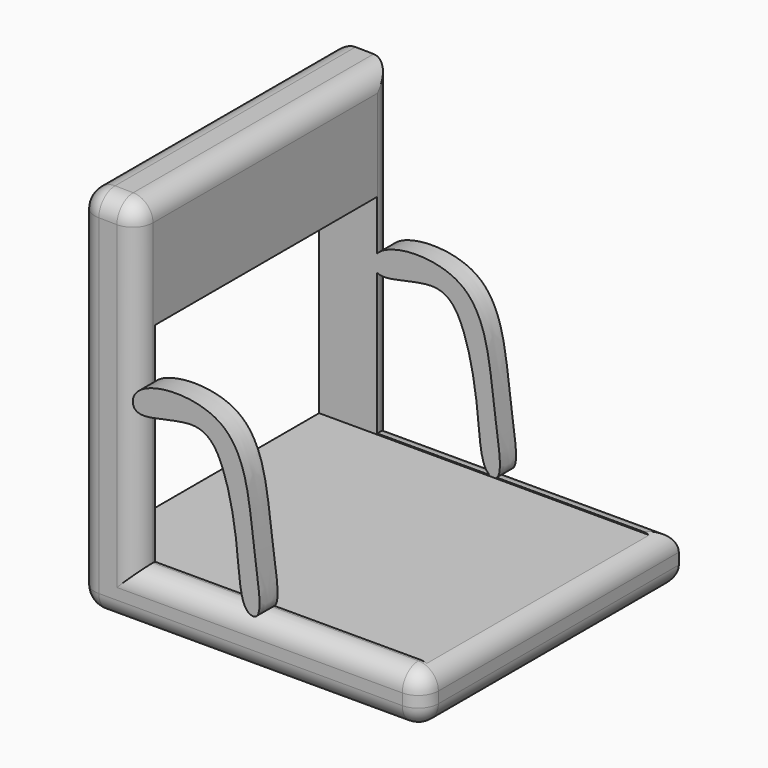
from build123d import *

# Parameters (mm, degrees)
F1_DEPTH      = 80
F2_R          = 5
F4_DEPTH      = 80
F5_W          = 69.3526305258
F5_H          = 52.2494073957
F6_DEPTH      = 32.7497253653
F6_DEPTH_BACK = 80


with BuildPart() as f1:
    # F0 (on Front) → F1 (new body)
    with BuildSketch(Plane.XZ):
        Polygon((-38.4773612022, 49.552731216), (-52.9899187386, 49.7436895967), (-52.9899187386, -42.8693182766), (32.7487252653, -42.8693182766), (32.7487252653, -30.0753582269), (-38.4773612022, -30.0753582269), align=None)
    extrude(amount=F1_DEPTH)

    # F2
    f2_edges = [f1.edges().sort_by_distance(p)[0] for p in [
        (-45.73364, -80, 49.64821),
        (-52.989919, -80, 3.437186),
        (-38.477361, -80, 9.738686),
        (-10.120597, -80, -42.869318),
        (32.748725, -80, -36.472338),
        (-2.864318, -80, -30.075358),
        (-38.477361, -40, 49.552731),
        (32.748725, -40, -30.075358),
        (32.748725, -40, -42.869318),
        (-2.864318, 0, -30.075358),
        (-38.477361, 0, 9.738686),
        (-52.989919, 0, 3.437186),
        (-10.120597, 0, -42.869318),
        (-52.989919, -40, -42.869318),
        (-52.989919, -40, 49.74369),
    ]]
    fillet(f2_edges, radius=F2_R)

    # F3 (on Front) → F4 (join)
    with BuildSketch(Plane.XZ):
        with BuildLine():
            add(Edge.make_bspline(
                [(-38.2473170757, 9.6792960539), (-34.7461796121, 13.0281086714), (-11.4925405841, 14.1909887393), (-10.1073277172, -13.4632232782), (-6.5035060364, -31.0405901942), (-12.631528047, -30.036067053), (-13.1115754671, -16.4435440399), (-16.1139194364, -0.2010840031), (-22.7345973209, 9.7301338701), (-39.8837011725, 2.0135902203), (-39.8908586877, 8.1072604099), (-38.2473170757, 9.6792960539)],
                knots=[0, 0, 0, 0, 0.1421739327, 0.3013436322, 0.4239758326, 0.4733624252, 0.5842320579, 0.7167055943, 0.8142170362, 0.9332591831, 1, 1, 1, 1], degree=3))
        make_face()
    extrude(amount=F4_DEPTH)

    # F5 (on Right) → F6 (cut, two sides)
    with BuildSketch(Plane.YZ) as f6_sk:
        with Locations((-39.7136043757, -4.2288182303)):
            Rectangle(F5_W, F5_H)
    extrude(amount=F6_DEPTH, mode=Mode.SUBTRACT)
    extrude(f6_sk.sketch, amount=-F6_DEPTH_BACK, mode=Mode.SUBTRACT)


solid = f1.part
